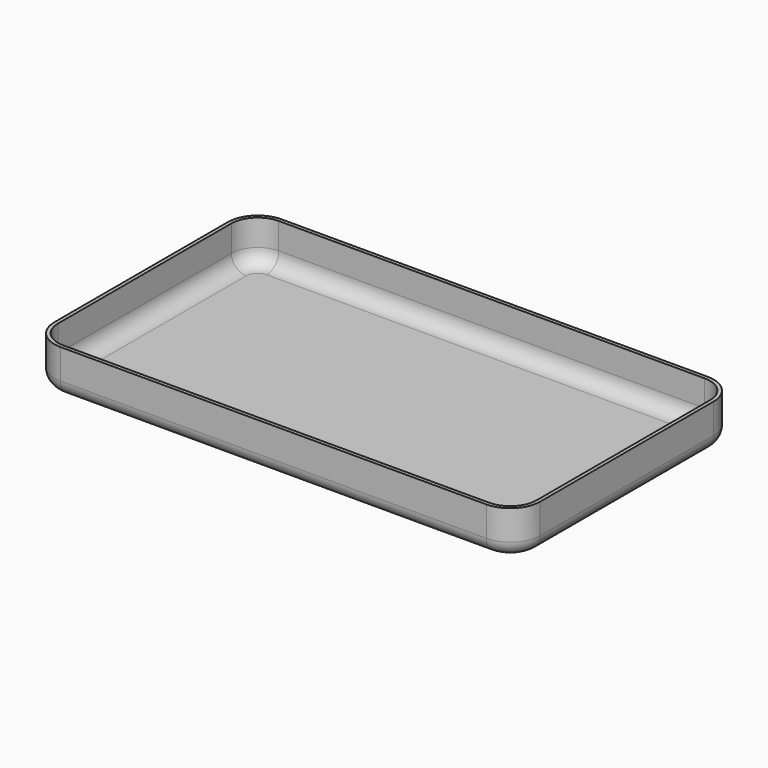
from build123d import *

# Parameters (mm, degrees)
F1_DEPTH = 15
F2_T     = -1.2
F3_R     = 5
F4_R     = 5


with BuildPart() as f1:
    # F0 (on Top) → F1 (new body)
    with BuildSketch(Plane.XY):
        with BuildLine():
            Line((35.3129135817, 42.7640778485), (-107.1870864183, 42.7640778485))
            ThreePointArc((-107.1870864183, 42.7640778485), (-114.2581542301, 39.8351456603), (-117.1870864183, 32.7640778485))
            Line((-117.1870864183, 32.7640778485), (-117.1870864183, -39.7359221515))
            ThreePointArc((-117.1870864183, -39.7359221515), (-114.2581542301, -46.8069899634), (-107.1870864183, -49.7359221515))
            Line((-107.1870864183, -49.7359221515), (35.3129135817, -49.7359221515))
            ThreePointArc((35.3129135817, -49.7359221515), (42.3839813936, -46.8069899634), (45.3129135817, -39.7359221515))
            Line((45.3129135817, -39.7359221515), (45.3129135817, 32.7640778485))
            ThreePointArc((45.3129135817, 32.7640778485), (42.3839813936, 39.8351456603), (35.3129135817, 42.7640778485))
        make_face()
    extrude(amount=F1_DEPTH)

    # F2
    f2_openings = [f1.faces().sort_by_distance(p)[0] for p in [
        (-35.937086, -3.485922, 15),
    ]]
    offset(amount=F2_T, openings=f2_openings)

    # F3
    f3_edges = [f1.edges().sort_by_distance(p)[0] for p in [
        (-35.937086, 41.564078, 1.2),
        (-113.409626, 38.986618, 1.2),
        (-115.987086, -3.485922, 1.2),
        (-113.409626, -45.958462, 1.2),
        (-35.937086, -48.535922, 1.2),
        (41.535453, -45.958462, 1.2),
        (44.112914, -3.485922, 1.2),
        (41.535453, 38.986618, 1.2),
    ]]
    fillet(f3_edges, radius=F3_R)

    # F4
    f4_edges = [f1.edges().sort_by_distance(p)[0] for p in [
        (-35.937086, 42.764078, 0),
        (-114.258154, 39.835146, 0),
        (-117.187086, -3.485922, 0),
        (-114.258154, -46.80699, 0),
        (-35.937086, -49.735922, 0),
        (42.383981, -46.80699, 0),
        (45.312914, -3.485922, 0),
        (42.383981, 39.835146, 0),
    ]]
    fillet(f4_edges, radius=F4_R)


solid = f1.part
